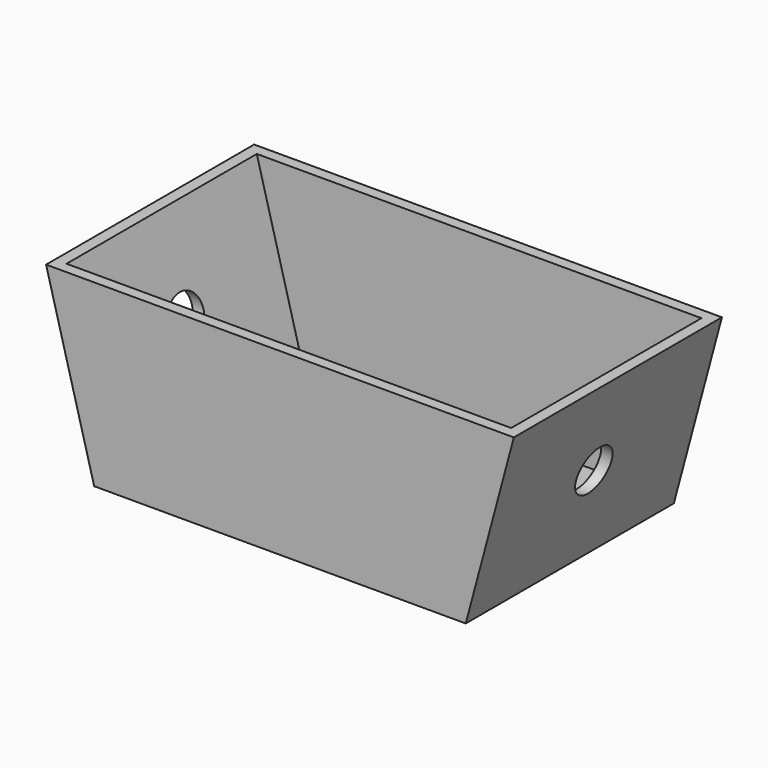
from build123d import *

# Parameters (mm, degrees)
F1_DEPTH = 35
F2_T     = -1.5
F4_D     = 6
F4_DEPTH = 31.4714761276
F5_D     = 6


with BuildPart() as f1:
    # F0 (on Front) → F1 (new body)
    with BuildSketch(Plane.XZ):
        Polygon((-31.4704761276, 48.409471255), (-25, 24.2613255978), (25, 24.2613255978), (31.4704761276, 48.409471255), align=None)
    extrude(amount=F1_DEPTH)

    # F2
    f2_openings = [f1.faces().sort_by_distance(p)[0] for p in [
        (0, -17.5, 48.409471),
    ]]
    offset(amount=F2_T, openings=f2_openings)

    # F4 (through all, one way)
    with BuildSketch(Plane.YZ):
        with Locations((-17.5, 36.3353984264)):
            Circle(F4_D / 2)
    extrude(amount=-F4_DEPTH, mode=Mode.SUBTRACT)

    # F5 (through all)
    with Locations(Plane(origin=(0, 0, 0), x_dir=(0, 1, 0), z_dir=(-1, 0, 0))):
        with Locations((-17.5, -36.3353984264)):
            Hole(F5_D / 2)


solid = f1.part
